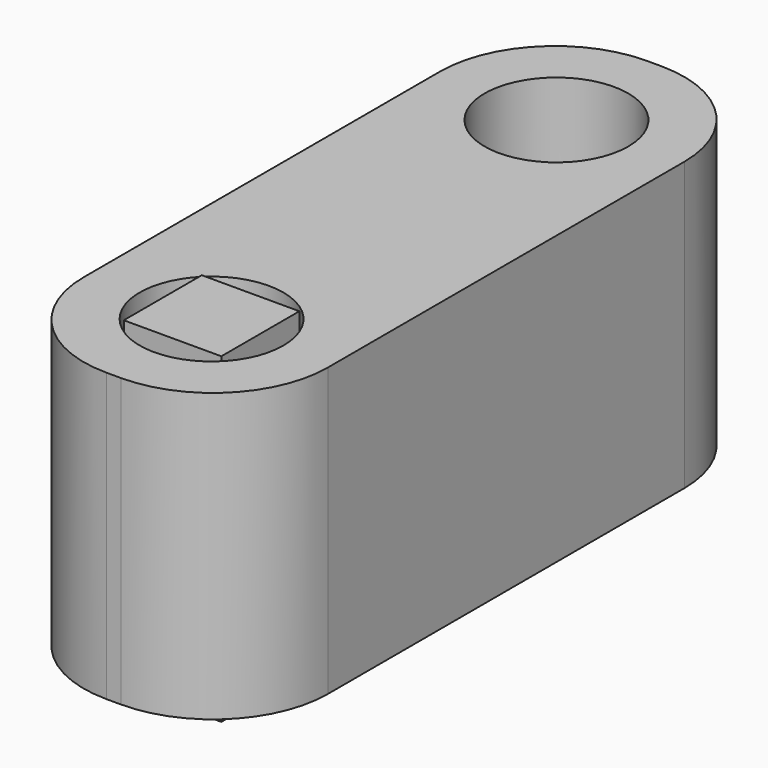
from build123d import *

# Parameters (mm, degrees)
F0_W     = 17
F0_H     = 47
F0_R     = 5
F1_DEPTH = 20
F2_R     = 8
F4_W     = 6.788226
F4_H     = 6.788226
F5_DEPTH = 20.4
F6_W     = 6.788226
F6_H     = 36.788226
F7_DEPTH = 2


with BuildPart() as f1:
    # F0 (on Top) → F1 (new body)
    with BuildSketch(Plane.XY):
        with Locations((0, 15)):
            Rectangle(F0_W, F0_H)
        Circle(F0_R, mode=Mode.SUBTRACT)
        with Locations((0, 30)):
            Circle(F0_R, mode=Mode.SUBTRACT)
    extrude(amount=F1_DEPTH)

    # F2
    f2_edges = [f1.edges().sort_by_distance(p)[0] for p in [
        (8.5, -8.5, 10),
        (-8.5, -8.5, 10),
        (8.5, 38.5, 10),
        (-8.5, 38.5, 10),
    ]]
    fillet(f2_edges, radius=F2_R)


with BuildPart() as f5:
    # F4 (on offset) → F5 (new body)
    with BuildSketch(Plane.XY.offset(-0.2)):
        Rectangle(F4_W, F4_H)
    extrude(amount=F5_DEPTH)

    # F6 (on face) → F7 (join)
    with BuildSketch(Plane(origin=(0, 0, -0.2), x_dir=(1, 0, 0), z_dir=(0, 0, -1))):
        with Locations((0, -15)):
            Rectangle(F6_W, F6_H)
    extrude(amount=F7_DEPTH)


solid = Compound([f1.part, f5.part])
